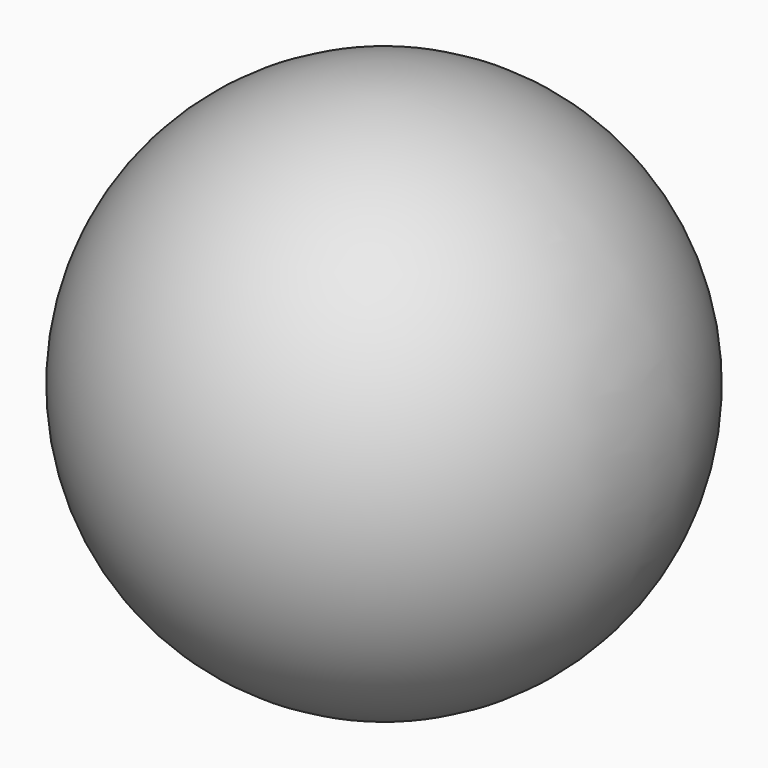
from build123d import *

# Parameters (mm, degrees)
F4_DEPTH = 318


with BuildPart() as f3:
    # F0 (on Front) → F3 (revolve)
    with BuildSketch(Plane.XZ):
        with BuildLine():
            Line((0, -97.79), (0, -101.6))
            ThreePointArc((0, -101.6), (101.6, 0), (0, 101.6))
            Line((0, 101.6), (0, 97.79))
            ThreePointArc((0, 97.79), (97.79, 0), (0, -97.79))
        make_face()
    revolve(axis=Axis((0, 0, -99.695), (0, 0, 1)))

    # F1 (on Front) → F4 (cut)
    with BuildSketch(Plane.XZ):
        with BuildLine():
            ThreePointArc((0, 25.4), (-17.9605122421, -17.9605122421), (25.4, 0))
            ThreePointArc((25.4, 0), (17.9605122421, 17.9605122421), (0, 25.4))
        make_face()
    extrude(amount=-F4_DEPTH, mode=Mode.SUBTRACT)


solid = f3.part
